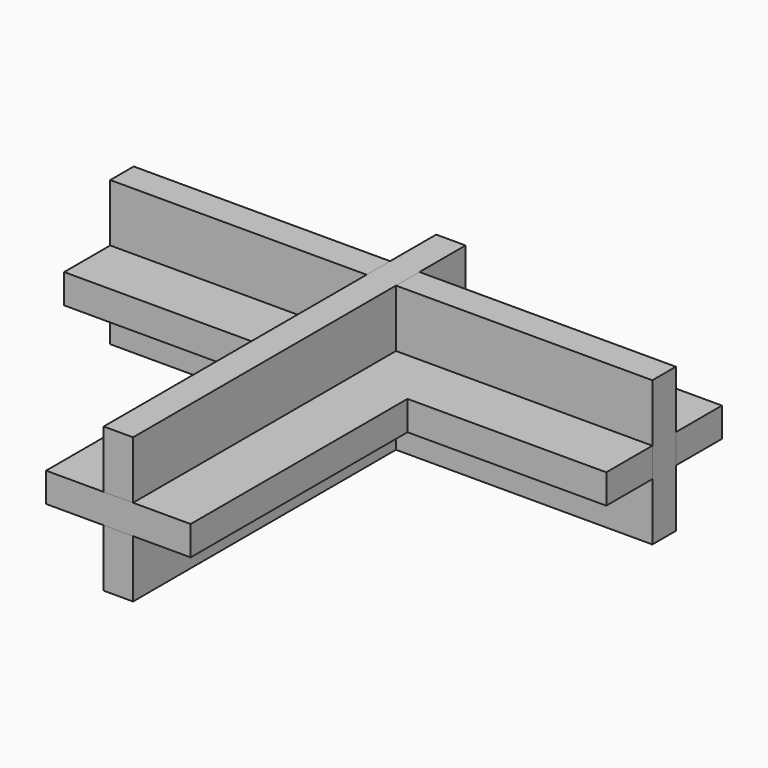
from build123d import *

# Parameters (mm, degrees)
F1_DEPTH  = 6.5
F4_DEPTH  = 3.25
F7_DEPTH  = 3.25
F10_ANGLE = 180


with BuildPart() as f1:
    # F0 (on Top) → F1 (new body)
    with BuildSketch(Plane.XY):
        Polygon((16, -16), (60, -16), (60, -3.25), (31.625, -3.25), (31.625, 3.25), (60, 3.25), (60, 16), (3.25, 16), (3.25, -30), (-3.25, -30), (-3.25, 16), (-60, 16), (-60, 3.25), (-31.625, 3.25), (-31.625, -3.25), (-60, -3.25), (-60, -16), (-16, -16), (-16, -76), (16, -76), align=None)
    extrude(amount=F1_DEPTH)


with BuildPart() as f4:
    # F3 (on Right) → F4 (new body, symmetric)
    with BuildSketch(Plane.YZ):
        Polygon((-76, 0), (-76, -12.75), (16, -12.75), (16, 0), (16, 6.5), (16, 19.25), (-76, 19.25), (-76, 6.5), (-16, 6.5), (-16, 0), align=None)
    extrude(amount=F4_DEPTH, both=True)


with BuildPart() as f7:
    # F6 (on offset) → F7 (new body, symmetric)
    with BuildSketch(Plane(origin=(0, 0, 0), x_dir=(-1, 0, 0), z_dir=(0, 1, 0))):
        Polygon((-3.25, 0), (-31.625, 0), (-31.625, 6.5), (-3.25, 6.5), (-3.25, 19.25), (-60, 19.25), (-60, 6.5), (-60, 0), (-60, -12.75), (-3.25, -12.75), align=None)
    extrude(amount=F7_DEPTH, both=True)


with BuildPart() as f8_1:
    # F8: copy of F7
    add(f7.part.moved(Location((-63.25, 0, 0))))


with BuildPart() as f8_1_1:
    # F10: moved
    add(f8_1.part.rotate(Axis((0, 0, -1.7375219613), (0, 0, -1)), F10_ANGLE))


with BuildPart() as f8_1_2:
    # F11: moved
    add(f8_1_1.part.moved(Location((-63.25, 0, 0))))


solid = Compound([f1.part, f4.part, f7.part, f8_1_2.part])
